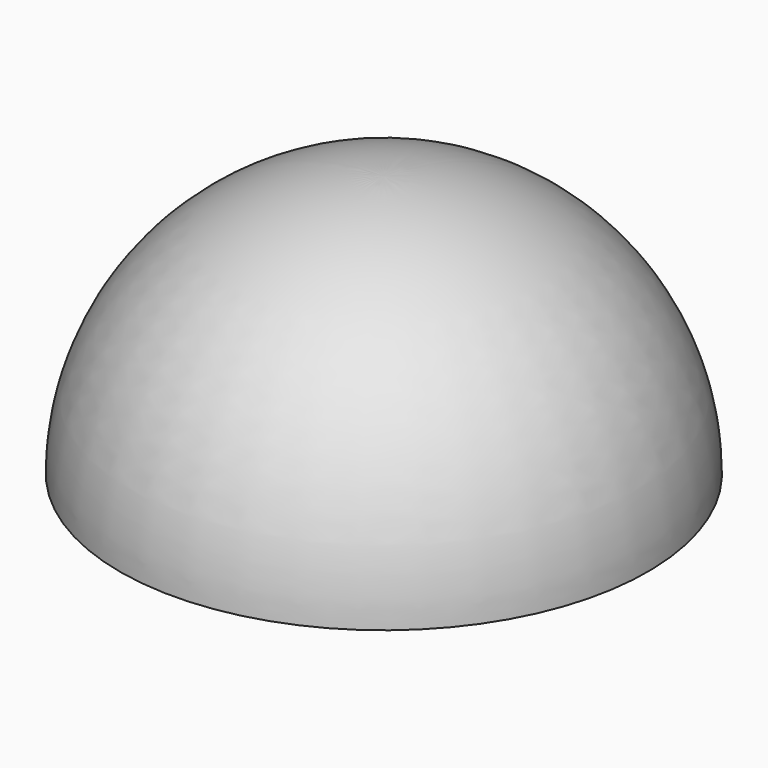
from build123d import *

# Parameters (mm, degrees)
F2_D     = 35
F2_DEPTH = 62.6861621233
F3_D     = 38
F3_DEPTH = 55
F3_TIP   = 11.4163517615


with BuildPart() as f1:
    # F0 (on Front) → F1 (revolve)
    with BuildSketch(Plane.XZ):
        with BuildLine():
            Line((0.1854866088, 54.4996843543), (0.1854866088, 62.4997247571))
            ThreePointArc((0.1854866088, 62.4997247571), (-44.0571672784, 44.330756946), (-62.4996754145, 0.2014276064))
            Line((-62.4996754145, 0.2014276064), (-54.4997169615, 0.1756448728))
            ThreePointArc((-54.4997169615, 0.1756448728), (-38.4094288046, 38.6647873252), (0.1854866088, 54.4996843543))
        make_face()
    revolve(axis=Axis((0.1854866088, 0, 58.4997045557), (0, 0, -1)))

    # F2 (through all, one way)
    with BuildSketch(Plane.XZ):
        with Locations((0, 0)):
            Circle(F2_D / 2)
    extrude(amount=-F2_DEPTH, mode=Mode.SUBTRACT)

    # F3 (one way)
    with BuildSketch(Plane.XZ):
        with Locations((0, 0)):
            Circle(F3_D / 2)
    extrude(amount=-F3_DEPTH, mode=Mode.SUBTRACT)
    with Locations(Plane.XZ):
        with Locations((0, 0)):
            with Locations((0, 0, -(F3_DEPTH + F3_TIP / 2))):  # 118° drill point
                Cone(0, F3_D / 2, F3_TIP, mode=Mode.SUBTRACT)


solid = f1.part
